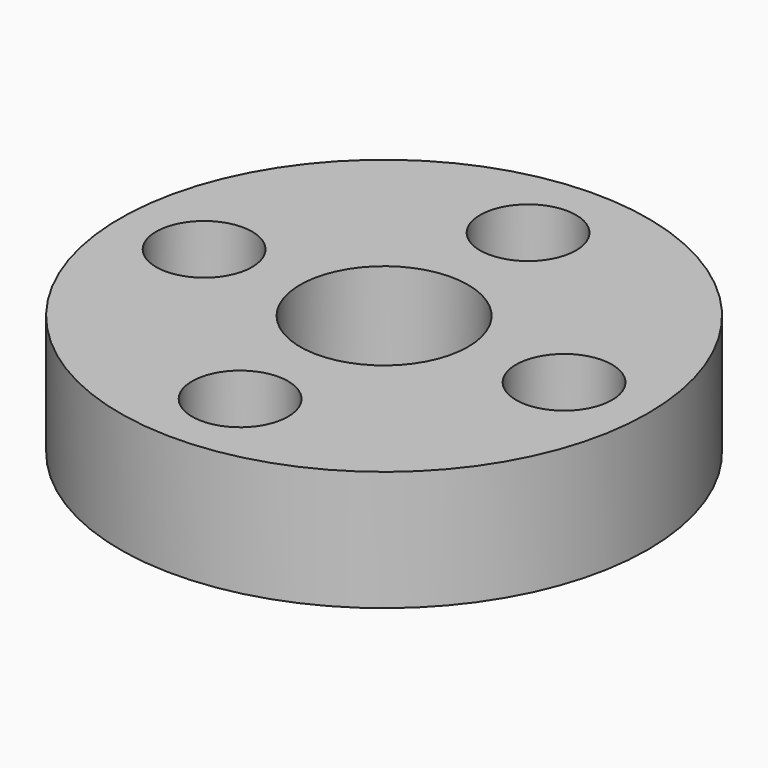
from build123d import *

# Parameters (mm, degrees)
SKETCH_R   = 22
SKETCH_R_2 = 4
SKETCH_R_3 = 7
PAD_DEPTH  = 10


with BuildPart() as part:
    # Sketch → Pad (new body)
    with BuildSketch(Plane.XY):
        Circle(SKETCH_R)
        with Locations((0, 15)):
            Circle(SKETCH_R_2, mode=Mode.SUBTRACT)
        with Locations((-15, 0)):
            Circle(SKETCH_R_2, mode=Mode.SUBTRACT)
        with Locations((15, 0)):
            Circle(SKETCH_R_2, mode=Mode.SUBTRACT)
        with Locations((0, -15)):
            Circle(SKETCH_R_2, mode=Mode.SUBTRACT)
        Circle(SKETCH_R_3, mode=Mode.SUBTRACT)
    extrude(amount=PAD_DEPTH)


solid = part.part
